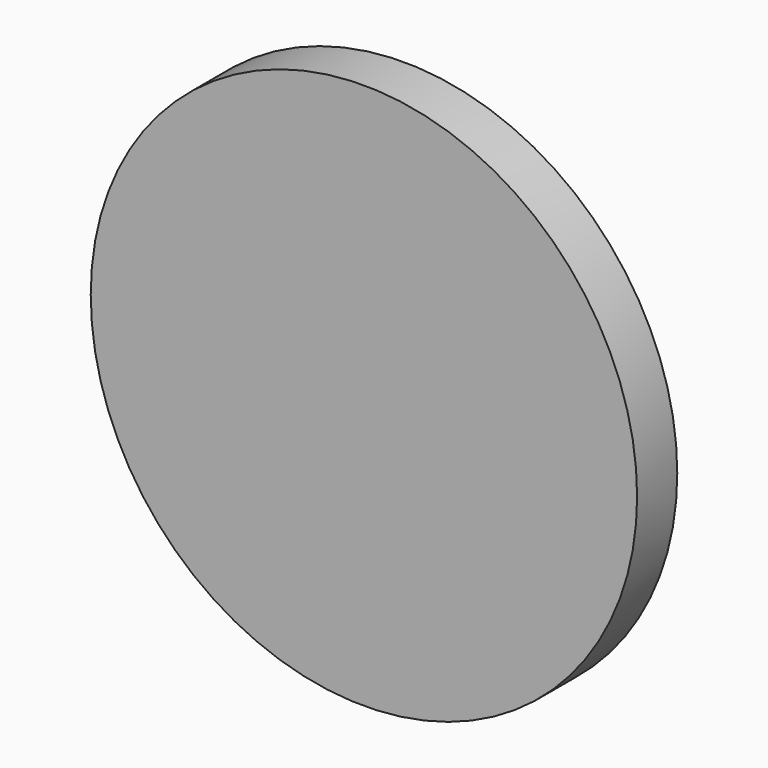
from build123d import *

# Parameters (mm, degrees)
F0_R     = 10.886435
F1_DEPTH = 2
F2_R     = 3.975
F3_DEPTH = 5
F4_R     = 3.15
F5_DEPTH = 4


with BuildPart() as f1:
    # F0 (on Front) → F1 (new body)
    with BuildSketch(Plane.XZ):
        Circle(F0_R)
    extrude(amount=F1_DEPTH)

    # F2 (on face) → F3 (join)
    with BuildSketch(Plane(origin=(0, 0, 0), x_dir=(-1, 0, 0), z_dir=(0, 1, 0))):
        Circle(F2_R)
    extrude(amount=F3_DEPTH)

    # F4 (on face) → F5 (cut)
    with BuildSketch(Plane(origin=(0, 5, 0), x_dir=(-1, 0, 0), z_dir=(0, 1, 0))):
        Circle(F4_R)
    extrude(amount=-F5_DEPTH, mode=Mode.SUBTRACT)


solid = f1.part
